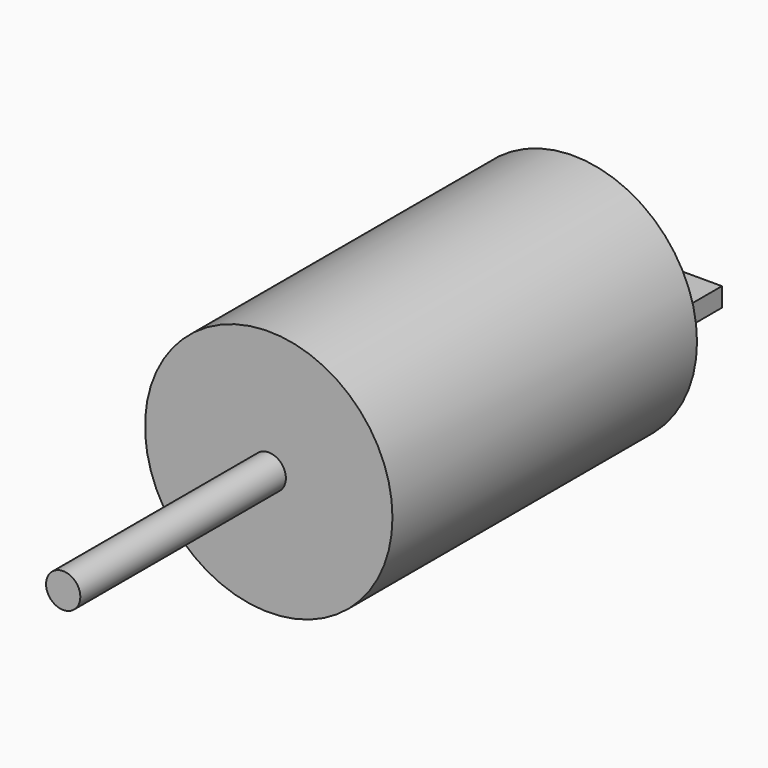
from build123d import *

# Parameters (mm, degrees)
F0_R     = 16.51
F1_DEPTH = 50.8
F2_R     = 2.286
F3_DEPTH = 34.29
F4_W     = 10.16
F4_H     = 2.54
F5_DEPTH = 7.62


with BuildPart() as f1:
    # F0 (on Front) → F1 (new body)
    with BuildSketch(Plane.XZ):
        Circle(F0_R)
    extrude(amount=F1_DEPTH)

    # F2 (on face) → F3 (join)
    with BuildSketch(Plane.XZ.offset(50.8)):
        Circle(F2_R)
    extrude(amount=F3_DEPTH)

    # F4 (on face) → F5 (join)
    with BuildSketch(Plane(origin=(0, 0, 0), x_dir=(-1, 0, 0), z_dir=(0, 1, 0))):
        with Locations((-8.658255, 1.27)):
            Rectangle(F4_W, F4_H)
        with Locations((7.64519, 1.27)):
            Rectangle(F4_W, F4_H)
    extrude(amount=F5_DEPTH)


solid = f1.part
